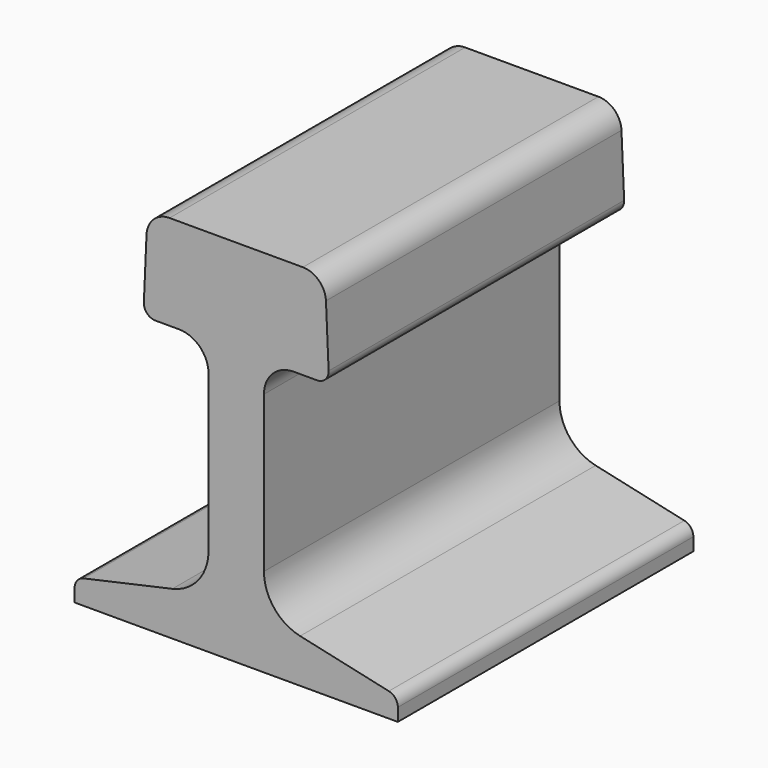
from build123d import *

# Parameters (mm, degrees)
F1_DEPTH = 25.4


with BuildPart() as f1:
    # F0 (on Front) → F1 (new body)
    with BuildSketch(Plane.XZ):
        with BuildLine():
            Line((0, 0.886948), (0, 0))
            Line((0, 0), (22.225, 0))
            Line((22.225, 0), (22.225, 0.886948))
            ThreePointArc((22.225, 0.886948), (22.050283, 1.383775), (21.603049, 1.661883))
            Line((21.603049, 1.661883), (15.505304, 3.013721))
            ThreePointArc((15.505304, 3.013721), (13.716367, 4.126153), (13.0175, 6.113461))
            Line((13.0175, 6.113461), (13.0175, 16.8402))
            ThreePointArc((13.0175, 16.8402), (13.612659, 18.277041), (15.0495, 18.8722))
            Line((15.0495, 18.8722), (16.671438, 18.8722))
            ThreePointArc((16.671438, 18.8722), (17.244814, 19.117062), (17.464432, 19.700573))
            Line((17.464432, 19.700573), (17.281879, 23.881746))
            ThreePointArc((17.281879, 23.881746), (16.793666, 24.959253), (15.695889, 25.4))
            Line((15.695889, 25.4), (6.529111, 25.4))
            ThreePointArc((6.529111, 25.4), (5.431334, 24.959253), (4.943121, 23.881746))
            Line((4.943121, 23.881746), (4.760568, 19.700573))
            ThreePointArc((4.760568, 19.700573), (4.980186, 19.117062), (5.553562, 18.8722))
            Line((5.553562, 18.8722), (7.1755, 18.8722))
            ThreePointArc((7.1755, 18.8722), (8.612341, 18.277041), (9.2075, 16.8402))
            Line((9.2075, 16.8402), (9.2075, 6.113461))
            ThreePointArc((9.2075, 6.113461), (8.508633, 4.126153), (6.719696, 3.013721))
            Line((6.719696, 3.013721), (0.621951, 1.661883))
            ThreePointArc((0.621951, 1.661883), (0.174717, 1.383775), (0, 0.886948))
        make_face()
    extrude(amount=F1_DEPTH)


solid = f1.part
